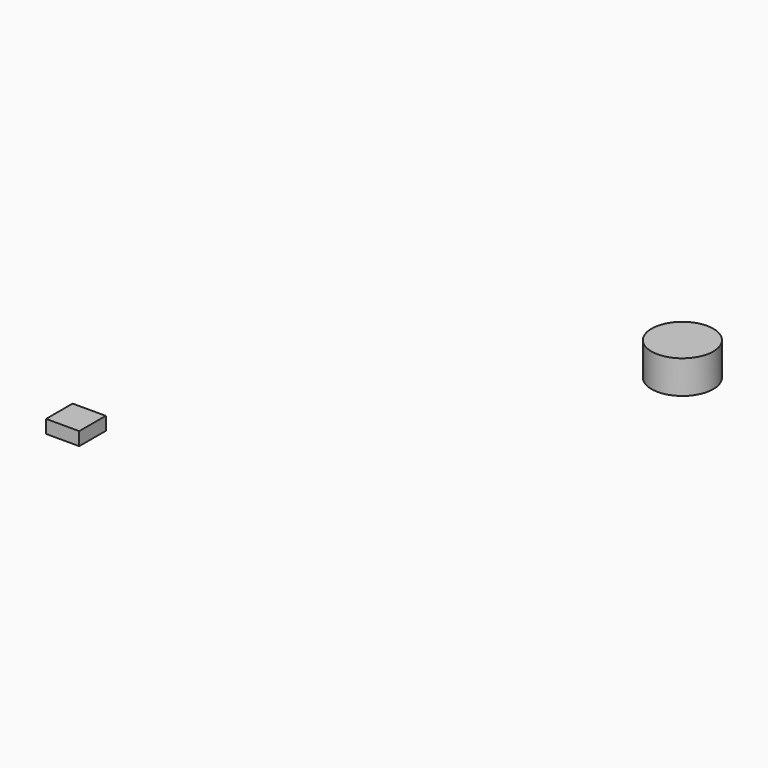
from build123d import *

# Parameters (mm, degrees)
SKETCH004_W  = 5
SKETCH004_H  = 5
PAD002_DEPTH = 2
SKETCH003_R  = 4.658459
PAD001_DEPTH = 5


with BuildPart() as body002:
    # Sketch004 → Pad002 (new body)
    with BuildSketch(Plane.XY):
        with Locations((-12.349656, 7.303812)):
            Rectangle(SKETCH004_W, SKETCH004_H)
    extrude(amount=PAD002_DEPTH)


with BuildPart() as stock_fusion:
    # Sketch003 → Pad001 (new body)
    with BuildSketch(Plane.XY):
        with Locations((34.701851, 62.798054)):
            Circle(SKETCH003_R)
    extrude(amount=PAD001_DEPTH)

    # Fusion: union Body002
    add(body002.part)


with BuildPart() as stock_fusion_1:
    # Clone009 placement: moved
    add(stock_fusion.part.moved(Location((10, 15, 0))))


solid = stock_fusion_1.part
